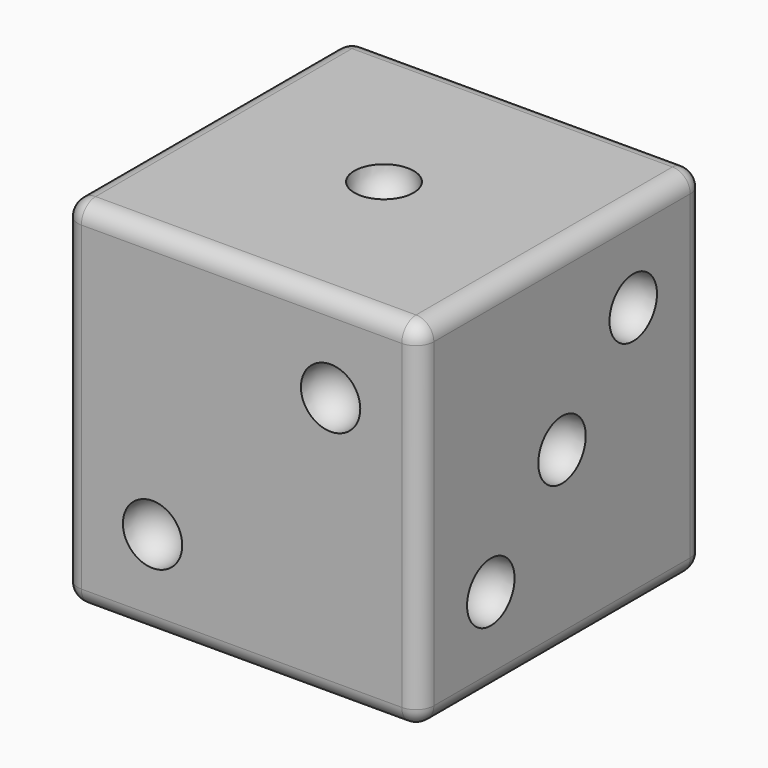
from build123d import *

# Parameters (mm, degrees)
F0_W     = 25.4
F0_H     = 25.4
F1_DEPTH = 25.4
F29_R    = 1.27


with BuildPart() as f1:
    # F0 (on Top) → F1 (new body)
    with BuildSketch(Plane.XY):
        Rectangle(F0_W, F0_H)
    extrude(amount=F1_DEPTH)

    # F2 (on face) → F3 (revolve, cut)
    with BuildSketch(Plane.XY.offset(25.4)):
        with BuildLine():
            Line((0, 2.116667), (0, -2.116667))
            ThreePointArc((0, -2.116667), (2.116667, 0), (0, 2.116667))
        make_face()
    revolve(axis=Axis((0, 0, 25.4), (0, -1, 0)), mode=Mode.SUBTRACT)

    # F4 (on face) → F5 (revolve, cut)
    with BuildSketch(Plane.XZ.offset(12.7)):
        with BuildLine():
            Line((-6.35, 8.466667), (-6.35, 4.233333))
            ThreePointArc((-6.35, 4.233333), (-4.233333, 6.35), (-6.35, 8.466667))
        make_face()
    revolve(axis=Axis((-6.35, -12.7, 6.35), (0, 0, -1)), mode=Mode.SUBTRACT)

    # F4 (on face) → F6 (revolve, cut)
    with BuildSketch(Plane.XZ.offset(12.7)):
        with BuildLine():
            Line((6.35, 21.166667), (6.35, 16.933333))
            ThreePointArc((6.35, 16.933333), (8.466667, 19.05), (6.35, 21.166667))
        make_face()
    revolve(axis=Axis((6.35, -12.7, 19.05), (0, 0, -1)), mode=Mode.SUBTRACT)

    # F7 (on face) → F8 (revolve, cut)
    with BuildSketch(Plane.YZ.offset(12.7)):
        with BuildLine():
            Line((6.35, 21.166667), (6.35, 16.933333))
            ThreePointArc((6.35, 16.933333), (8.466667, 19.05), (6.35, 21.166667))
        make_face()
    revolve(axis=Axis((12.7, 6.35, 19.05), (0, 0, -1)), mode=Mode.SUBTRACT)

    # F7 (on face) → F9 (revolve, cut)
    with BuildSketch(Plane.YZ.offset(12.7)):
        with BuildLine():
            Line((0, 14.816667), (0, 10.583333))
            ThreePointArc((0, 10.583333), (2.116667, 12.7), (0, 14.816667))
        make_face()
    revolve(axis=Axis((12.7, 0, 12.7), (0, 0, -1)), mode=Mode.SUBTRACT)

    # F7 (on face) → F10 (revolve, cut)
    with BuildSketch(Plane.YZ.offset(12.7)):
        with BuildLine():
            Line((-6.35, 8.466667), (-6.35, 4.233333))
            ThreePointArc((-6.35, 4.233333), (-4.233333, 6.35), (-6.35, 8.466667))
        make_face()
    revolve(axis=Axis((12.7, -6.35, 6.35), (0, 0, -1)), mode=Mode.SUBTRACT)

    # F11 (on face) → F12 (revolve, cut)
    with BuildSketch(Plane(origin=(-12.7, 0, 0), x_dir=(0, -1, 0), z_dir=(-1, 0, 0))):
        with BuildLine():
            Line((-6.35, 21.166667), (-6.35, 19.05))
            Line((-6.35, 19.05), (-6.35, 16.933333))
            ThreePointArc((-6.35, 16.933333), (-4.233333, 19.05), (-6.35, 21.166667))
        make_face()
    revolve(axis=Axis((-12.7, 6.35, 17.991667), (0, 0, -1)), mode=Mode.SUBTRACT)

    # F11 (on face) → F13 (revolve, cut)
    with BuildSketch(Plane(origin=(-12.7, 0, 0), x_dir=(0, -1, 0), z_dir=(-1, 0, 0))):
        with BuildLine():
            Line((6.35, 21.166667), (6.35, 19.05))
            Line((6.35, 19.05), (6.35, 16.933333))
            ThreePointArc((6.35, 16.933333), (8.466667, 19.05), (6.35, 21.166667))
        make_face()
    revolve(axis=Axis((-12.7, -6.35, 17.991667), (0, 0, -1)), mode=Mode.SUBTRACT)

    # F11 (on face) → F14 (revolve, cut)
    with BuildSketch(Plane(origin=(-12.7, 0, 0), x_dir=(0, -1, 0), z_dir=(-1, 0, 0))):
        with BuildLine():
            Line((-6.35, 8.466667), (-6.35, 6.35))
            Line((-6.35, 6.35), (-6.35, 4.233333))
            ThreePointArc((-6.35, 4.233333), (-4.233333, 6.35), (-6.35, 8.466667))
        make_face()
    revolve(axis=Axis((-12.7, 6.35, 5.291667), (0, 0, -1)), mode=Mode.SUBTRACT)

    # F11 (on face) → F15 (revolve, cut)
    with BuildSketch(Plane(origin=(-12.7, 0, 0), x_dir=(0, -1, 0), z_dir=(-1, 0, 0))):
        with BuildLine():
            Line((6.35, 8.466667), (6.35, 6.35))
            Line((6.35, 6.35), (6.35, 4.233333))
            ThreePointArc((6.35, 4.233333), (8.466667, 6.35), (6.35, 8.466667))
        make_face()
    revolve(axis=Axis((-12.7, -6.35, 5.291667), (0, 0, -1)), mode=Mode.SUBTRACT)

    # F16 (on face) → F17 (revolve, cut)
    with BuildSketch(Plane(origin=(0, 12.7, 0), x_dir=(-1, 0, 0), z_dir=(0, 1, 0))):
        with BuildLine():
            Line((-6.35, 21.166667), (-6.35, 16.933333))
            ThreePointArc((-6.35, 16.933333), (-4.233333, 19.05), (-6.35, 21.166667))
        make_face()
    revolve(axis=Axis((6.35, 12.7, 19.05), (0, 0, -1)), mode=Mode.SUBTRACT)

    # F16 (on face) → F18 (revolve, cut)
    with BuildSketch(Plane(origin=(0, 12.7, 0), x_dir=(-1, 0, 0), z_dir=(0, 1, 0))):
        with BuildLine():
            ThreePointArc((6.35, 16.933333), (8.466667, 19.05), (6.35, 21.166667))
            Line((6.35, 21.166667), (6.35, 16.933333))
        make_face()
    revolve(axis=Axis((-6.35, 12.7, 19.05), (0, 0, -1)), mode=Mode.SUBTRACT)

    # F16 (on face) → F19 (revolve, cut)
    with BuildSketch(Plane(origin=(0, 12.7, 0), x_dir=(-1, 0, 0), z_dir=(0, 1, 0))):
        with BuildLine():
            Line((0, 14.816667), (0, 10.583333))
            ThreePointArc((0, 10.583333), (2.116667, 12.7), (0, 14.816667))
        make_face()
    revolve(axis=Axis((0, 12.7, 12.7), (0, 0, -1)), mode=Mode.SUBTRACT)

    # F16 (on face) → F20 (revolve, cut)
    with BuildSketch(Plane(origin=(0, 12.7, 0), x_dir=(-1, 0, 0), z_dir=(0, 1, 0))):
        with BuildLine():
            ThreePointArc((-6.35, 4.233333), (-4.233333, 6.35), (-6.35, 8.466667))
            Line((-6.35, 8.466667), (-6.35, 4.233333))
        make_face()
    revolve(axis=Axis((6.35, 12.7, 6.35), (0, 0, -1)), mode=Mode.SUBTRACT)

    # F16 (on face) → F21 (revolve, cut)
    with BuildSketch(Plane(origin=(0, 12.7, 0), x_dir=(-1, 0, 0), z_dir=(0, 1, 0))):
        with BuildLine():
            ThreePointArc((6.35, 4.233333), (8.466667, 6.35), (6.35, 8.466667))
            Line((6.35, 8.466667), (6.35, 4.233333))
        make_face()
    revolve(axis=Axis((-6.35, 12.7, 6.35), (0, 0, -1)), mode=Mode.SUBTRACT)

    # F22 (on face) → F23 (revolve, cut)
    with BuildSketch(Plane(origin=(0, 0, 0), x_dir=(1, 0, 0), z_dir=(0, 0, -1))):
        with BuildLine():
            Line((-6.35, 8.466667), (-6.35, 4.233333))
            ThreePointArc((-6.35, 4.233333), (-4.233333, 6.35), (-6.35, 8.466667))
        make_face()
    revolve(axis=Axis((-6.35, -6.35, 0), (0, 1, 0)), mode=Mode.SUBTRACT)

    # F22 (on face) → F24 (revolve, cut)
    with BuildSketch(Plane(origin=(0, 0, 0), x_dir=(1, 0, 0), z_dir=(0, 0, -1))):
        with BuildLine():
            Line((6.35, 8.466667), (6.35, 4.233333))
            ThreePointArc((6.35, 4.233333), (8.466667, 6.35), (6.35, 8.466667))
        make_face()
    revolve(axis=Axis((6.35, -6.35, 0), (0, 1, 0)), mode=Mode.SUBTRACT)

    # F22 (on face) → F25 (revolve, cut)
    with BuildSketch(Plane(origin=(0, 0, 0), x_dir=(1, 0, 0), z_dir=(0, 0, -1))):
        with BuildLine():
            Line((-6.35, 2.116667), (-6.35, -2.116667))
            ThreePointArc((-6.35, -2.116667), (-4.233333, 0), (-6.35, 2.116667))
        make_face()
    revolve(axis=Axis((-6.35, 0, 0), (0, 1, 0)), mode=Mode.SUBTRACT)

    # F22 (on face) → F26 (revolve, cut)
    with BuildSketch(Plane(origin=(0, 0, 0), x_dir=(1, 0, 0), z_dir=(0, 0, -1))):
        with BuildLine():
            Line((6.35, 2.116667), (6.35, -2.116667))
            ThreePointArc((6.35, -2.116667), (8.466667, 0), (6.35, 2.116667))
        make_face()
    revolve(axis=Axis((6.35, 0, 0), (0, 1, 0)), mode=Mode.SUBTRACT)

    # F22 (on face) → F27 (revolve, cut)
    with BuildSketch(Plane(origin=(0, 0, 0), x_dir=(1, 0, 0), z_dir=(0, 0, -1))):
        with BuildLine():
            Line((-6.35, -4.233333), (-6.35, -8.466667))
            ThreePointArc((-6.35, -8.466667), (-4.233333, -6.35), (-6.35, -4.233333))
        make_face()
    revolve(axis=Axis((-6.35, 6.35, 0), (0, 1, 0)), mode=Mode.SUBTRACT)

    # F22 (on face) → F28 (revolve, cut)
    with BuildSketch(Plane(origin=(0, 0, 0), x_dir=(1, 0, 0), z_dir=(0, 0, -1))):
        with BuildLine():
            Line((6.35, -4.233333), (6.35, -8.466667))
            ThreePointArc((6.35, -8.466667), (8.466667, -6.35), (6.35, -4.233333))
        make_face()
    revolve(axis=Axis((6.35, 6.35, 0), (0, 1, 0)), mode=Mode.SUBTRACT)

    # F29
    f29_edges = [f1.edges().sort_by_distance(p)[0] for p in [
        (0, -12.7, 25.4),
        (12.7, -12.7, 12.7),
        (12.7, 0, 25.4),
        (12.7, 0, 0),
        (0, -12.7, 0),
        (-12.7, 0, 0),
        (-12.7, -12.7, 12.7),
        (-12.7, 12.7, 12.7),
        (0, 12.7, 0),
        (0, 12.7, 25.4),
        (-12.7, 0, 25.4),
        (12.7, 12.7, 12.7),
    ]]
    fillet(f29_edges, radius=F29_R)


solid = f1.part
